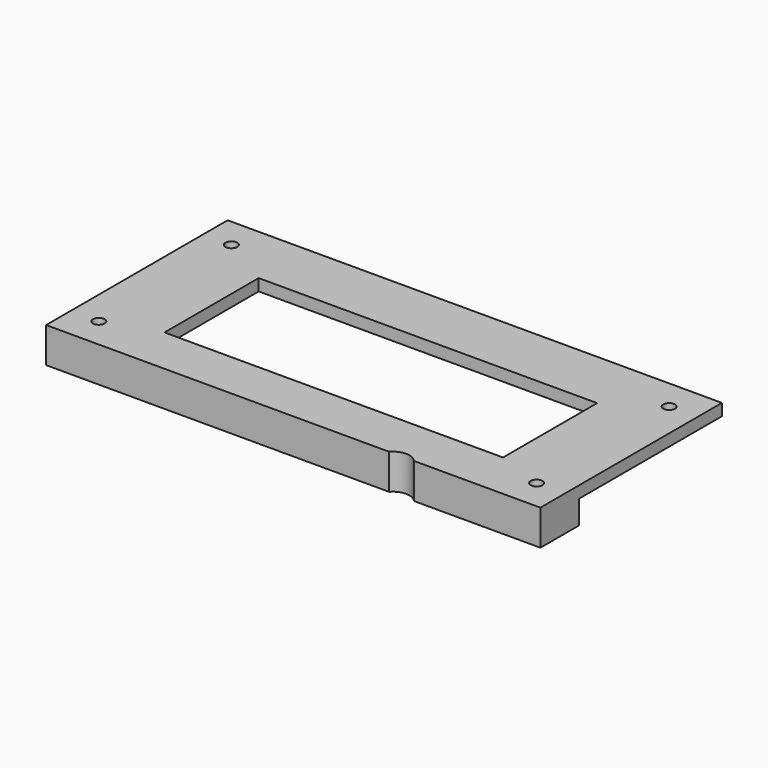
from build123d import *

# Parameters (mm, degrees)
F0_W     = 2.2
F0_H     = 5
F1_DEPTH = 105
F2_R     = 1.25
F3_DEPTH = 2.5
F4_W     = 71.900862
F4_H     = 25
F5_DEPTH = 7.5
F0_W_2   = 8
F6_DEPTH = 2.5


with BuildPart() as f1:
    # F0 (on Right) → F1 (new body)
    with BuildSketch(Plane.YZ):
        with Locations((-25.733312, 13.186514)):
            Rectangle(F0_W, F0_H)
        Polygon((-26.833312, 15.686514), (-24.633312, 15.686514), (-16.633312, 15.686514), (21.366688, 15.686514), (21.366688, 18.186514), (-26.833312, 18.186514), align=None)
    extrude(amount=-F1_DEPTH)

    # F2 (on face) → F3 (cut)
    with BuildSketch(Plane.XY.offset(18.186514)):
        with Locations((-99, 14.866688)):
            Circle(F2_R)
        with Locations((-6, 14.866688)):
            Circle(F2_R)
        with Locations((-6, -20.333312)):
            Circle(F2_R)
        with Locations((-99, -20.333312)):
            Circle(F2_R)
    extrude(amount=-F3_DEPTH, mode=Mode.SUBTRACT)

    # F4 (on face) → F5 (cut)
    with BuildSketch(Plane.XY.offset(18.186514)):
        with Locations((-52.049569, -4.133312)):
            Rectangle(F4_W, F4_H)
        with BuildLine():
            Line((-32.138181, -26.833312), (-26.861819, -26.833312))
            ThreePointArc((-26.861819, -26.833312), (-29.5, -25.633312), (-32.138181, -26.833312))
        make_face()
    extrude(amount=-F5_DEPTH, mode=Mode.SUBTRACT)

    # F0 (on Right) → F6 (join)
    with BuildSketch(Plane.YZ):
        with Locations((-20.633312, 13.186514)):
            Rectangle(F0_W_2, F0_H)
    extrude(amount=-F6_DEPTH)


solid = f1.part
